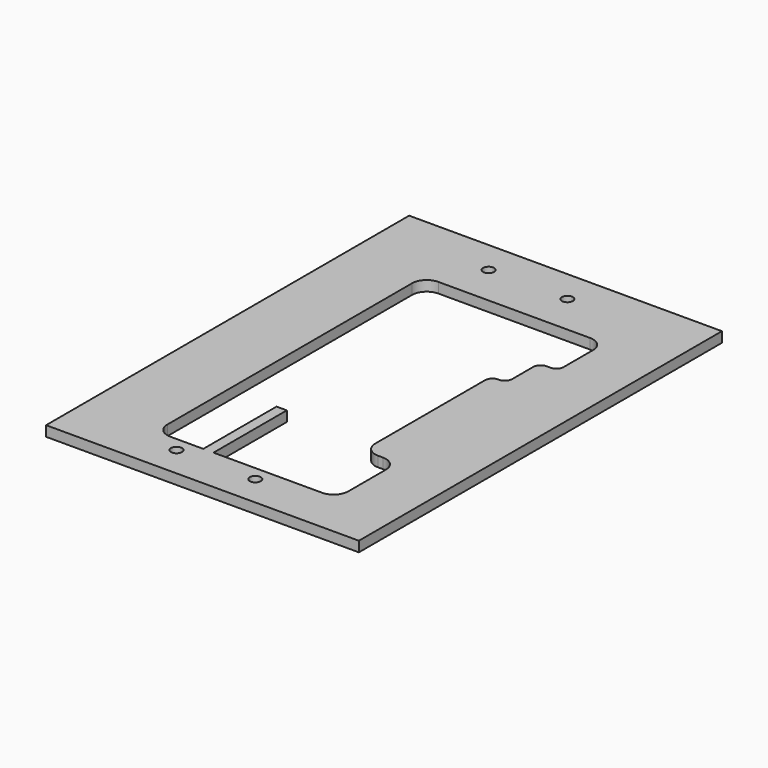
from build123d import *

# Parameters (mm, degrees)
SKETCH_W     = 85.4
SKETCH_H     = 123.9
SKETCH_R     = 1.5
PAD_DEPTH    = 2.8
SKETCH001_W  = 2.8
SKETCH001_H  = 25
PAD001_DEPTH = 2.8


with BuildPart() as part:
    # Sketch → Pad (new body)
    with BuildSketch(Plane.XY):
        with Locations((22.7, 49.55)):
            Rectangle(SKETCH_W, SKETCH_H)
        with Locations((8.9, -4)):
            Circle(SKETCH_R, mode=Mode.SUBTRACT)
        with Locations((30.4, -4)):
            Circle(SKETCH_R, mode=Mode.SUBTRACT)
        with Locations((8.9, 102.5)):
            Circle(SKETCH_R, mode=Mode.SUBTRACT)
        with Locations((30.4, 102.5)):
            Circle(SKETCH_R, mode=Mode.SUBTRACT)
        with BuildLine():
            Line((4, 91.5), (45.4, 91.5))
            ThreePointArc((49.4, 87.5), (48.228427, 90.328427), (45.4, 91.5))
            Line((49.4, 87.5), (49.4, 77.5))
            ThreePointArc((47.4, 75.5), (48.814214, 76.085786), (49.4, 77.5))
            Line((47.4, 75.5), (46.3, 75.5))
            ThreePointArc((46.3, 75.5), (44.885786, 74.914214), (44.3, 73.5))
            Line((44.3, 66.3), (44.3, 73.5))
            ThreePointArc((42.3, 64.3), (43.714214, 64.885786), (44.3, 66.3))
            Line((42.1, 64.3), (42.3, 64.3))
            ThreePointArc((42.1, 64.3), (40.685786, 63.714214), (40.1, 62.3))
            Line((40.1, 24.8), (40.1, 62.3))
            ThreePointArc((40.1, 24.8), (41.271573, 21.971573), (44.1, 20.8))
            Line((45.4, 20.8), (44.1, 20.8))
            ThreePointArc((49.4, 16.8), (48.228427, 19.628427), (45.4, 20.8))
            Line((49.4, 16.8), (49.4, 4))
            ThreePointArc((45.4, 0), (48.228427, 1.171573), (49.4, 4))
            Line((45.4, 0), (4, 0))
            ThreePointArc((0, 4), (1.171573, 1.171573), (4, 0))
            Line((0, 4), (0, 87.5))
            ThreePointArc((4, 91.5), (1.171573, 90.328427), (0, 87.5))
        make_face(mode=Mode.SUBTRACT)
    extrude(amount=PAD_DEPTH)

    # Sketch001 → Pad001 (join)
    with BuildSketch(Plane.XY):
        with Locations((14.4, 12.5)):
            Rectangle(SKETCH001_W, SKETCH001_H)
    extrude(amount=PAD001_DEPTH)


solid = part.part
